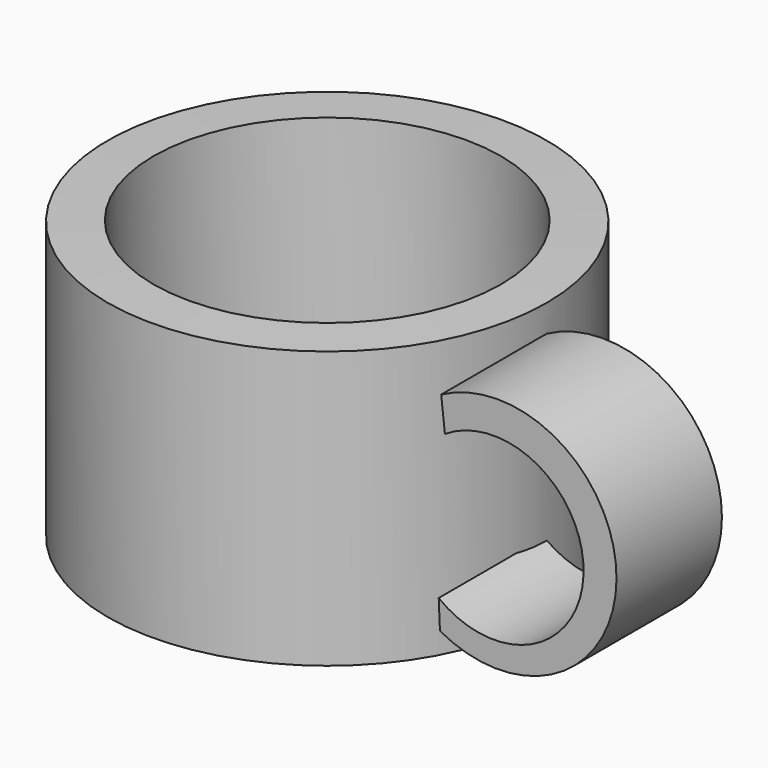
from build123d import *

# Parameters (mm, degrees)
F3_DEPTH = 25


with BuildPart() as f1:
    # F0 (on Front) → F1 (revolve)
    with BuildSketch(Plane.XZ):
        Polygon((-7.769059, 68.391263), (-16.479822, 68.626687), (-16.479822, 25.308298), (-49.439464, 25.308298), (-49.439464, 15.891256), (-7.769059, 15.891256), (-7.769059, 19.658072), align=None)
    revolve(axis=Axis((-49.439464, 0, 20.599777), (0, 0, -1)))

    # F2 (on Front) → F3 (join)
    with BuildSketch(Plane.XZ):
        with BuildLine():
            ThreePointArc((-7.113229, 56.855384), (19.181964, 41.826106), (-8.29036, 29.075112))
            Line((-8.29036, 29.075112), (-8.054934, 23.660313))
            ThreePointArc((-8.054934, 23.660313), (25.44575, 43.237394), (-7.819509, 63.211888))
            Line((-7.819509, 63.211888), (-7.113229, 56.855384))
        make_face()
    extrude(amount=F3_DEPTH)


solid = f1.part
